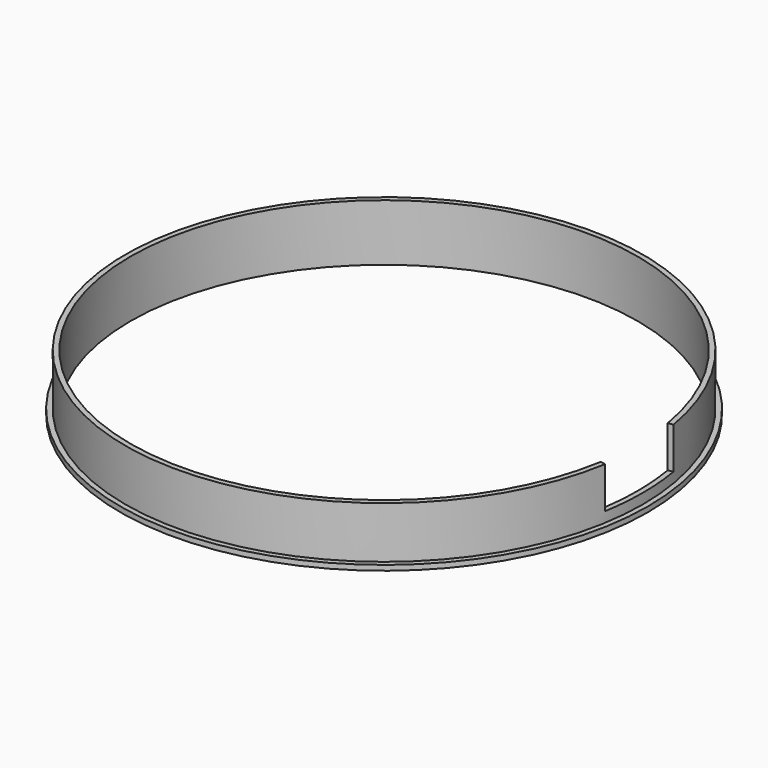
from build123d import *

# Parameters (mm, degrees)
F0_W          = 1
F0_H          = 8
F2_ANGLE_BACK = 9.5
F2_ANGLE      = 19


with BuildPart() as f1:
    # F0 (on Front) → F1 (revolve)
    with BuildSketch(Plane.XZ):
        Polygon((48.960784, 2.9816715978), (48.960784, 0), (50.960784, 0), (50.960784, 1), (49.960784, 1), (49.960784, 2.9816715978), align=None)
        with Locations((49.460784, 6.9816715978)):
            Rectangle(F0_W, F0_H)
    revolve(axis=Axis((0, 0, 8.8810138404), (0, 0, 1)))

    # F0 (on Front) → F2 (revolve, cut)
    with BuildSketch(Plane.XZ, mode=Mode.PRIVATE) as f2_sk:
        with Locations((49.460784, 6.9816715978)):
            Rectangle(F0_W, F0_H)
        with Locations((49.460784, 6.9816715978)):
            Rectangle(F0_W, F0_H)
    revolve(f2_sk.sketch.rotate(Axis((0, 0, 8.8810138404), (0, 0, 1)), -F2_ANGLE_BACK), axis=Axis((0, 0, 8.8810138404), (0, 0, 1)), revolution_arc=F2_ANGLE, mode=Mode.SUBTRACT)


solid = f1.part
